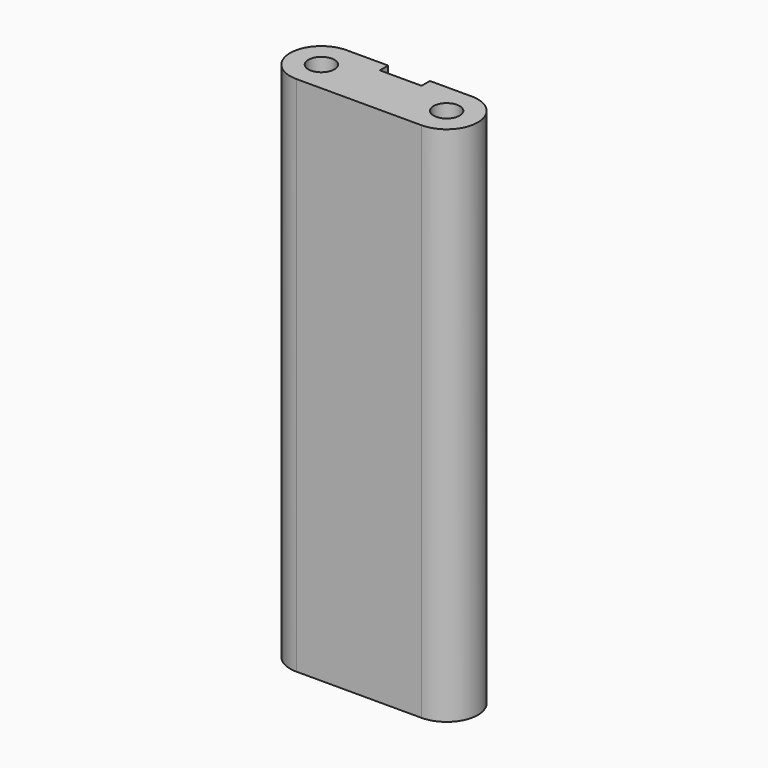
from build123d import *

# Parameters (mm, degrees)
F0_R     = 0.625
F1_DEPTH = 25


with BuildPart() as f1:
    # F0 (on Top) → F1 (new body)
    with BuildSketch(Plane.XY):
        with BuildLine():
            ThreePointArc((-17.959679, -19.862904), (-19.459679, -21.362904), (-17.959679, -22.862904))
            Line((-17.959679, -22.862904), (-11.959679, -22.862904))
            ThreePointArc((-11.959679, -22.862904), (-10.459679, -21.362904), (-11.959679, -19.862904))
            Line((-11.959679, -19.862904), (-13.959679, -19.862904))
            Line((-13.959679, -19.862904), (-13.959679, -20.362904))
            Line((-13.959679, -20.362904), (-15.959679, -20.362904))
            Line((-15.959679, -20.362904), (-15.959679, -19.862904))
            Line((-15.959679, -19.862904), (-17.959679, -19.862904))
        make_face()
        with Locations((-17.959679, -21.362904)):
            Circle(F0_R, mode=Mode.SUBTRACT)
        with Locations((-11.959679, -21.362904)):
            Circle(F0_R, mode=Mode.SUBTRACT)
    extrude(amount=F1_DEPTH)


solid = f1.part
